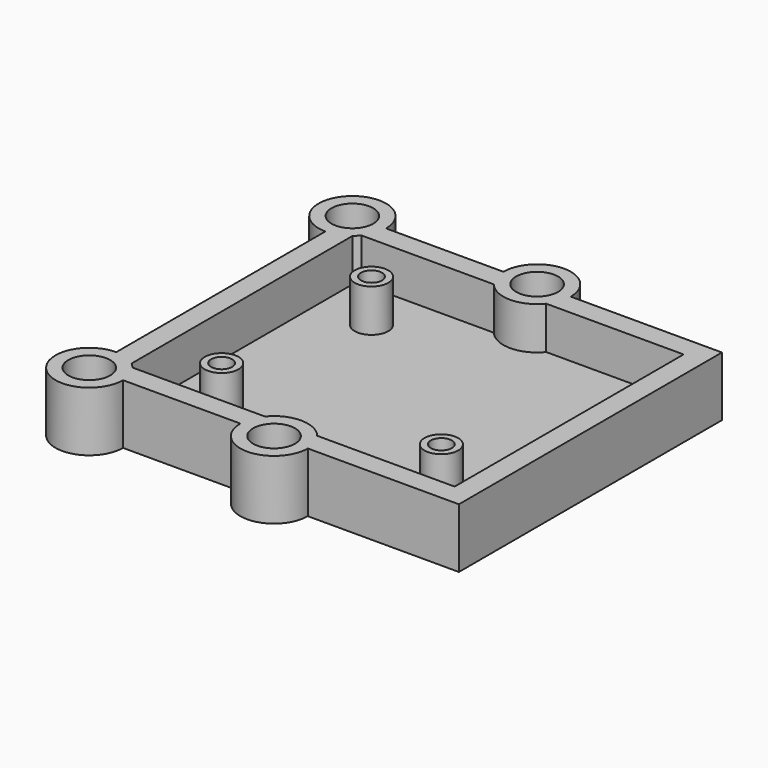
from build123d import *

# Parameters (mm, degrees)
F7_W         = 43.4
F7_H         = 38.6
F8_DEPTH     = 7
F6_W         = 38.4
F6_H         = 33.6
F9_DEPTH     = 7
F10_DEPTH    = 2
F11_R        = 1.9795
F12_DEPTH    = 5
F15_R        = 3.959
F16_DEPTH    = 7
F17_D        = 4.918
F18_D        = 2.459
F18_ON_F11_D = 2.459


with BuildPart() as f8:
    # F7 (on Top) → F8 (new body)
    with BuildSketch(Plane.XY):
        Rectangle(F7_W, F7_H)
    extrude(amount=F8_DEPTH)

    # F6 (on Top) → F9 (cut)
    with BuildSketch(Plane.XY):
        Rectangle(F6_W, F6_H)
    extrude(amount=F9_DEPTH, mode=Mode.SUBTRACT)

    # F6 (on Top) → F10 (join)
    with BuildSketch(Plane.XY):
        Rectangle(F6_W, F6_H)
    extrude(amount=F10_DEPTH)

    # F11 (on face) → F12 (join)
    with BuildSketch(Plane.XY.offset(2)):
        with Locations((-12.8000564873, 10.9999701381)):
            Circle(F11_R)
        with Locations((13.0001017824, -10.9999775887)):
            Circle(F11_R)
        with Locations((-12.8000564873, -10.9999775887)):
            Circle(F11_R)
    extrude(amount=F12_DEPTH)


with BuildPart() as f8_1:
    # F13: moved
    add(f8.part.moved(Location((0, 0, -7))))

    # F15 (on face) → F16 (join)
    with BuildSketch(Plane.XY):
        with Locations((-21.6995608062, -19.3000994623)):
            Circle(F15_R)
        with Locations((0, -19.3000994623)):
            Circle(F15_R)
        with Locations((0, 19.3000193685)):
            Circle(F15_R)
        with Locations((-21.6892641038, 19.3044058979)):
            Circle(F15_R)
    extrude(amount=-F16_DEPTH)

    # F17 (through all)
    with Locations(Plane.XY):
        with Locations((-21.6892641038, 19.3044058979), (0, 19.3000193685), (0, -19.3000994623), (-21.6995608062, -19.3000994623)):
            Hole(F17_D / 2)

    # F18 (through all)
    with Locations(Plane.XY):
        with Locations((-12.8, 11), (13, -11)):
            Hole(F18_D / 2)

    # F18 on F11 (through all)
    with Locations(Plane.XY.offset(2)):
        with Locations((-12.8000564873, -10.9999775887)):
            Hole(F18_ON_F11_D / 2)


solid = f8_1.part
